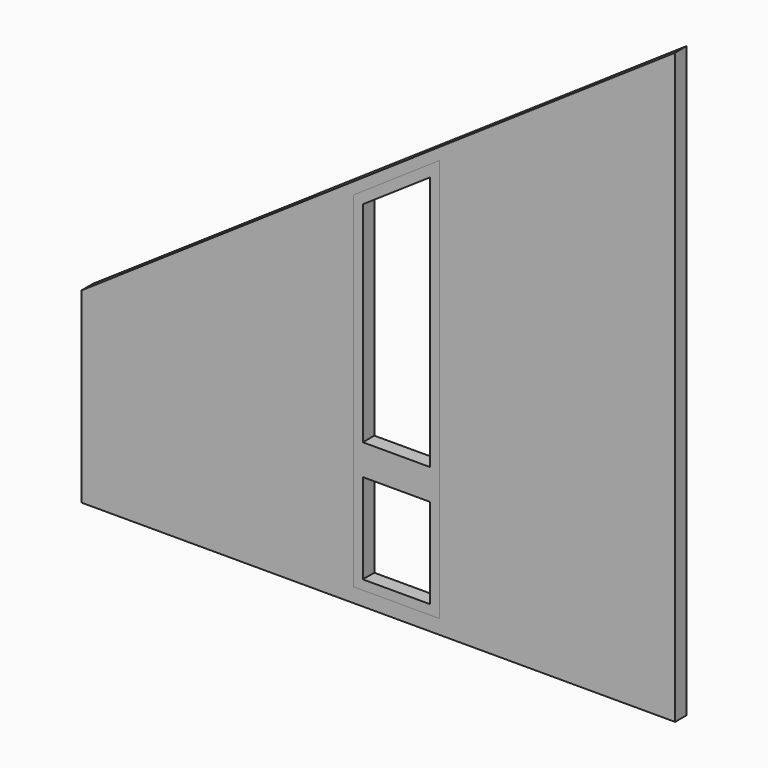
from build123d import *

# Parameters (mm, degrees)
F0_W     = 457.2
F0_H     = 76.2
F1_DEPTH = 76.2
F0_H_2   = 579.12
F0_W_2   = 355.6
F0_H_3   = 477.52
F0_H_4   = 60.96
F3_DEPTH = 76.2


with BuildPart() as f1:
    # F0 (on Front) → F1 (new body)
    with BuildSketch(Plane.XZ):
        Polygon((-1249.68, 0), (0, 0), (0, 3124.2), (-3148.584, 990.6), (-3148.584, 0), (-1706.88, 0), (-1706.88, 76.2), (-1706.88, 655.32), (-1706.88, 716.28), (-1706.88, 1905), (-1249.68, 2214.81607), (-1249.68, 716.28), (-1249.68, 655.32), (-1249.68, 76.2), align=None)
        with Locations((-1478.28, 38.1)):
            Rectangle(F0_W, F0_H)
    extrude(amount=F1_DEPTH)


with BuildPart() as f3:
    # F0 (on Front) → F3 (new body)
    with BuildSketch(Plane.XZ):
        Polygon((-1706.88, 716.28), (-1249.68, 716.28), (-1249.68, 2214.81607), (-1706.88, 1905), align=None)
        Polygon((-1300.48, 767.08), (-1656.08, 767.08), (-1656.08, 1878.059097), (-1300.48, 2119.027151), align=None, mode=Mode.SUBTRACT)
        with Locations((-1478.28, 365.76)):
            Rectangle(F0_W, F0_H_2)
        with Locations((-1478.28, 365.76)):
            Rectangle(F0_W_2, F0_H_3, mode=Mode.SUBTRACT)
        with Locations((-1478.28, 685.8)):
            Rectangle(F0_W, F0_H_4)
    extrude(amount=F3_DEPTH)


solid = Compound([f1.part, f3.part])
